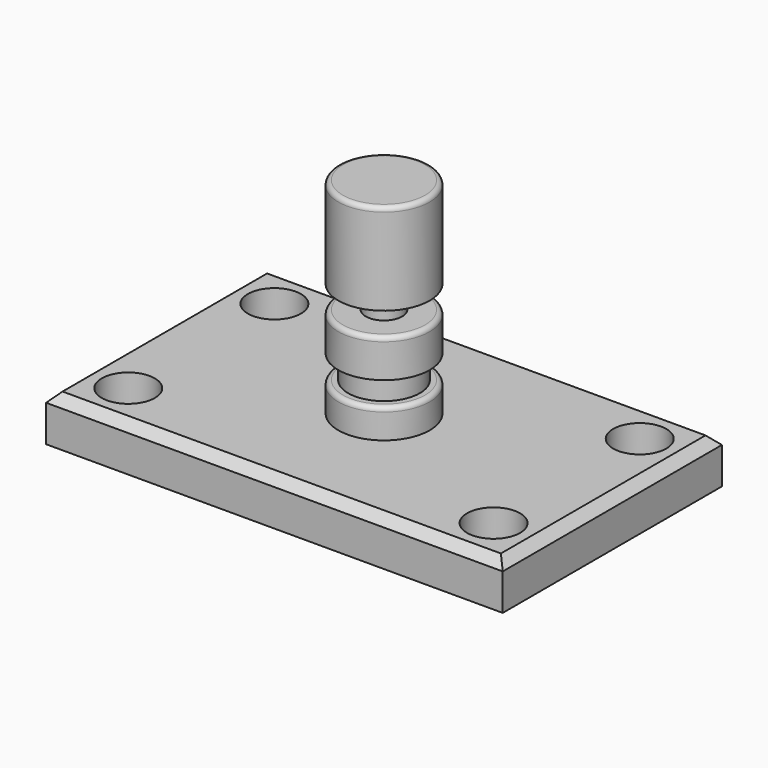
from build123d import *

# Parameters (mm, degrees)
F0_W     = 127
F0_H     = 76.2
F0_R     = 7.3897760938
F1_DEPTH = 12.7
F2_W     = 12.7
F2_H     = 25.4
F4_W     = 5.08
F4_H     = 6.35
F6_W     = 12.7
F6_H     = 25.4
F8_W     = 8.5996873677
F8_H     = 6.5357591957
F10_R    = 1.27
F11_SIZE = 2.54
F12_R    = 1.27


with BuildPart() as f1:
    # F0 (on Top) → F1 (new body)
    with BuildSketch(Plane.XY):
        Rectangle(F0_W, F0_H)
        with Locations((-50.8, -25.4)):
            Circle(F0_R, mode=Mode.SUBTRACT)
        with Locations((50.8, -25.4)):
            Circle(F0_R, mode=Mode.SUBTRACT)
        with Locations((-50.8, 25.4)):
            Circle(F0_R, mode=Mode.SUBTRACT)
        with Locations((50.8, 25.4)):
            Circle(F0_R, mode=Mode.SUBTRACT)
    extrude(amount=F1_DEPTH)

    # F2 (on Front) → F3 (revolve)
    with BuildSketch(Plane.XZ):
        with Locations((6.35, 25.4)):
            Rectangle(F2_W, F2_H)
    revolve(axis=Axis((0, 0, 25.4), (0, 0, -1)))

    # F4 (on Front) → F5 (revolve)
    with BuildSketch(Plane.XZ):
        with Locations((2.54, 41.275)):
            Rectangle(F4_W, F4_H)
    revolve(axis=Axis((0, 0, 41.275), (0, 0, 1)))

    # F6 (on Front) → F7 (revolve)
    with BuildSketch(Plane.XZ):
        with Locations((6.35, 57.15)):
            Rectangle(F6_W, F6_H)
    revolve(axis=Axis((0, 0, 57.15), (0, 0, -1)))

    # F8 (on Front) → F9 (revolve, cut)
    with BuildSketch(Plane.XZ):
        with Locations((14.2845828086, 24.1821696982)):
            Rectangle(F8_W, F8_H)
    revolve(axis=Axis((0, 0, 12.7), (0, 0, 1)), mode=Mode.SUBTRACT)

    # F10
    f10_edges = [f1.edges().sort_by_distance(p)[0] for p in [
        (-12.7, 0, 69.85),
    ]]
    fillet(f10_edges, radius=F10_R)

    # F11
    f11_edges = [f1.edges().sort_by_distance(p)[0] for p in [
        (0, -38.1, 12.7),
        (-63.5, 0, 12.7),
        (0, 38.1, 12.7),
        (63.5, 0, 12.7),
    ]]
    chamfer(f11_edges, length=F11_SIZE)

    # F12
    f12_edges = [f1.edges().sort_by_distance(p)[0] for p in [
        (-12.7, 0, 38.1),
        (-12.7, 0, 20.91429),
    ]]
    fillet(f12_edges, radius=F12_R)


solid = f1.part
